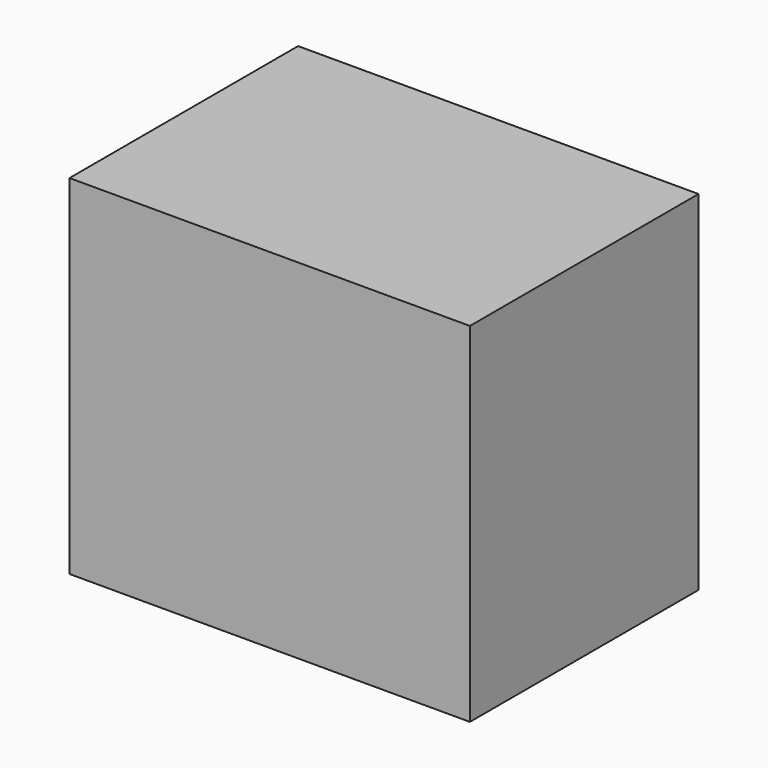
from build123d import *

# Parameters (mm, degrees)
F0_W     = 83.9962661266
F0_H     = 73.1296129525
F2_DEPTH = 59.944
F1_W     = 83.9962661266
F1_H     = 73.1296129525


with BuildPart() as f2:
    # F0 (on Front) → F2 (new body)
    with BuildSketch(Plane.XZ):
        with Locations((4.5522488654, 14.9783547968)):
            Rectangle(F0_W, F0_H)
    extrude(amount=F2_DEPTH)


with BuildPart() as f2b:
    # F1 (on face) → F2, piece 2 (new body)
    with BuildSketch(Plane.XZ):
        with Locations((4.5522488654, 14.9783547968)):
            Rectangle(F1_W, F1_H)
    extrude(amount=F2_DEPTH)


solid = Compound([f2.part, f2b.part])
